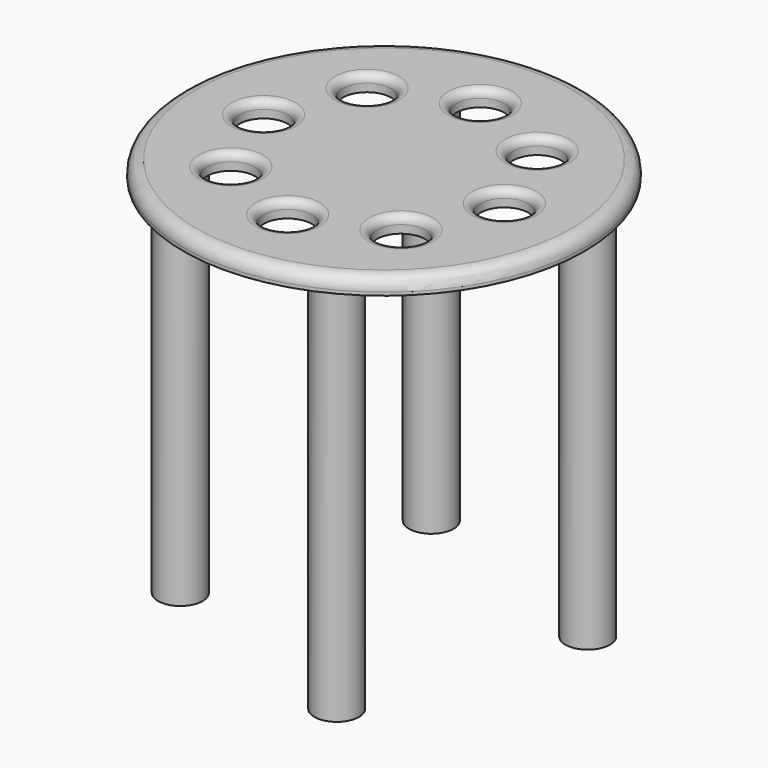
from build123d import *

# Parameters (mm, degrees)
F0_R     = 125
F2_DEPTH = 10
F1_R     = 15
F3_DEPTH = 10
F4_R     = 8
F5_R     = 5
F6_R     = 13.890964
F7_DEPTH = 250


with BuildPart() as f2:
    # F0 (on Top) → F2 (new body)
    with BuildSketch(Plane.XY):
        Circle(F0_R)
    extrude(amount=-F2_DEPTH)

    # F1 (on face) → F3 (cut)
    with BuildSketch(Plane.XY):
        with Locations((0, 75)):
            Circle(F1_R)
        with Locations((-53.033009, 53.033009)):
            Circle(F1_R)
        with Locations((-75, 0)):
            Circle(F1_R)
        with Locations((-53.033009, -53.033009)):
            Circle(F1_R)
        with Locations((0, -75)):
            Circle(F1_R)
        with Locations((53.033009, -53.033009)):
            Circle(F1_R)
        with Locations((75, 0)):
            Circle(F1_R)
        with Locations((53.033009, 53.033009)):
            Circle(F1_R)
    extrude(amount=-F3_DEPTH, mode=Mode.SUBTRACT)

    # F4
    f4_edges = [f2.edges().sort_by_distance(p)[0] for p in [
        (-125, 0, 0),
    ]]
    fillet(f4_edges, radius=F4_R)

    # F5
    f5_edges = [f2.edges().sort_by_distance(p)[0] for p in [
        (-117, 0, 0),
        (-68.033009, -53.033009, 0),
        (-15, -75, 0),
        (38.033009, -53.033009, 0),
        (-90, 0, 0),
        (-68.033009, 53.033009, 0),
        (60, 0, 0),
        (-15, 75, 0),
        (38.033009, 53.033009, 0),
    ]]
    fillet(f5_edges, radius=F5_R)

    # F6 (on face) → F7 (join)
    with BuildSketch(Plane.XY):
        with Locations((-43.95349, 91.773257)):
            Circle(F6_R)
        with Locations((-91.773257, -43.95349)):
            Circle(F6_R)
        with Locations((43.95349, -91.773257)):
            Circle(F6_R)
        with Locations((91.773257, 43.95349)):
            Circle(F6_R)
    extrude(amount=-F7_DEPTH)


solid = f2.part
